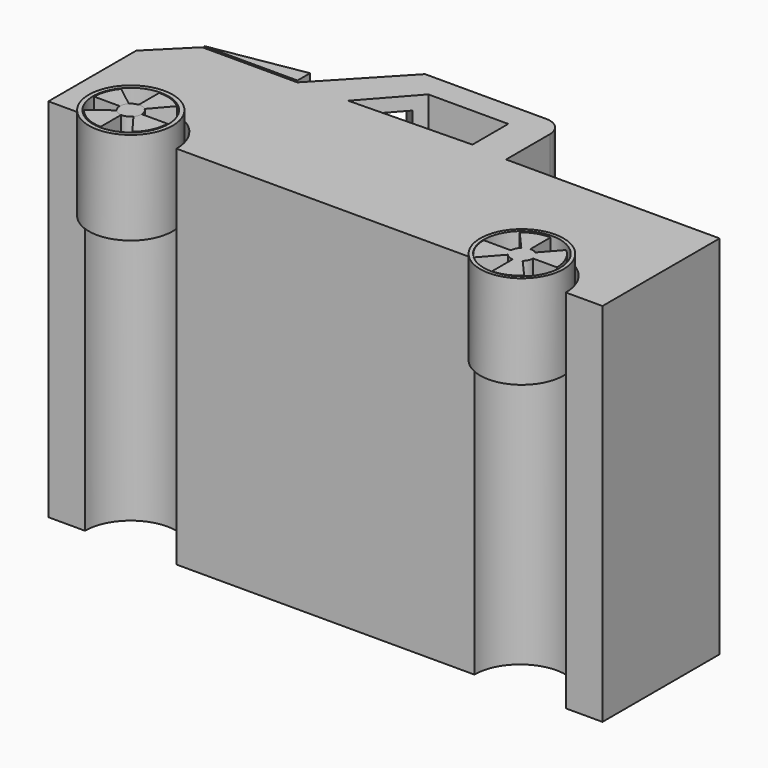
from build123d import *

# Parameters (mm, degrees)
F1_DEPTH       = 25.4
F3_DEPTH       = 127
F4_SIZE        = 12.7
F6_R           = 6.35
F8_DEPTH       = 152.654
F10_DEPTH      = 25.4
F12_DEPTH      = 25.4
F13_W          = 16.2486957626
F13_H          = 119.4617953151
F14_DEPTH      = 19.05
F15_W          = 59.9437842466
F15_H          = 107.8668609262
F16_DEPTH      = 31.75
F17_R          = 12.7
F18_DEPTH      = 6.604
F18_DEPTH_BACK = 25.4
F20_DEPTH      = 42.672
F21_R          = 14.5503391108
F21_R_2        = 13.0985920163
F22_DEPTH      = 32.258
F23_R          = 3.8234210024
F24_DEPTH      = 32.258
F26_DEPTH      = 37.592
F27_R          = 14.4579304603
F27_R_2        = 13.2474049672
F28_DEPTH      = 32.512


with BuildPart() as f1:
    # F0 (on Top) → F1 (new body)
    with BuildSketch(Plane.XY):
        with BuildLine():
            Line((-98.0778662412, 30.7255328881), (-98.0778662412, -20.0744671119))
            Line((-98.0778662412, -20.0744671119), (-85.3778662412, -20.0744671119))
            ThreePointArc((-85.3778662412, -20.0744671119), (-69.5028662412, -4.1994671119), (-53.6278662412, -20.0744671119))
            Line((-53.6278662412, -20.0744671119), (49.6654686659, -20.0744671119))
            ThreePointArc((49.6654686659, -20.0744671119), (65.5404686659, -4.1994671119), (81.4154686659, -20.0744671119))
            Line((81.4154686659, -20.0744671119), (94.1154686659, -20.0744671119))
            Line((94.1154686659, -20.0744671119), (94.1154686659, 30.7255328881))
            Line((94.1154686659, 30.7255328881), (20.0321313981, 30.7255328881))
            Line((20.0321313981, 30.7255328881), (20.0321313981, 56.1255328881))
            Line((20.0321313981, 56.1255328881), (-28.3871404864, 56.1255328881))
            Line((-28.3871404864, 56.1255328881), (-52.3578648184, 30.7255328881))
            Line((-52.3578648184, 30.7255328881), (-98.0778662412, 30.7255328881))
        make_face()
        Polygon((7.467600517, 31.8516008556), (-34.8995998502, 30.9372004122), (-20.2692002058, 47.3963990808), (7.467600517, 47.3963990808), align=None, mode=Mode.SUBTRACT)
    extrude(amount=F1_DEPTH)


with BuildPart() as f3:
    # F2 (on face) → F3 (new body)
    with BuildSketch(Plane.XY.offset(25.4)):
        with BuildLine():
            Line((-28.3871404864, 56.1255328881), (-52.3578648184, 30.7255328881))
            Line((-52.3578648184, 30.7255328881), (-98.0778662412, 30.7255328881))
            Line((-98.0778662412, 30.7255328881), (-98.0778662412, -20.0744671119))
            Line((-98.0778662412, -20.0744671119), (-85.3778662412, -20.0744671119))
            ThreePointArc((-85.3778662412, -20.0744671119), (-69.5028662412, -4.1994671119), (-53.6278662412, -20.0744671119))
            Line((-53.6278662412, -20.0744671119), (49.6654686659, -20.0744671119))
            ThreePointArc((49.6654686659, -20.0744671119), (65.5404686659, -4.1994671119), (81.4154686659, -20.0744671119))
            Line((81.4154686659, -20.0744671119), (94.1154686659, -20.0744671119))
            Line((94.1154686659, -20.0744671119), (94.1154686659, 30.7255328881))
            Line((94.1154686659, 30.7255328881), (20.0321313981, 30.7255328881))
            Line((20.0321313981, 30.7255328881), (20.0321313981, 56.1255328881))
            Line((20.0321313981, 56.1255328881), (-28.3871404864, 56.1255328881))
        make_face()
        Polygon((7.467600517, 47.3963990808), (7.467600517, 31.8516008556), (-34.8995998502, 30.9372004122), (-20.2692002058, 47.3963990808), align=None, mode=Mode.SUBTRACT)
    extrude(amount=F3_DEPTH)

    # F4
    f4_edges = [f3.edges().sort_by_distance(p)[0] for p in [
        (-98.077866, 30.725533, 88.9),
    ]]
    chamfer(f4_edges, length=F4_SIZE)

    # F6
    f6_edges = [f3.edges().sort_by_distance(p)[0] for p in [
        (20.032131, 56.125533, 88.9),
    ]]
    fillet(f6_edges, radius=F6_R)

    # F13 (on face) → F14 (cut)
    with BuildSketch(Plane(origin=(-43.0304532091, 40.6090996754, 0), x_dir=(-0.686348585, -0.7272727273, 0), z_dir=(-0.7272727273, 0.686348585, 0))):
        with Locations((-8.1243478813, 88.1171720102)):
            Rectangle(F13_W, F13_H)
    extrude(amount=-F14_DEPTH, mode=Mode.SUBTRACT)

    # F15 (on face) → F16 (cut)
    with BuildSketch(Plane(origin=(0, 30.7255328881, 0), x_dir=(-1, 0, 0), z_dir=(0, 1, 0))):
        with Locations((-55.6326190781, 90.9239016473)):
            Rectangle(F15_W, F15_H)
    extrude(amount=-F16_DEPTH, mode=Mode.SUBTRACT)


with BuildPart() as f8:
    # F7 (on Top) → F8 (new body)
    with BuildSketch(Plane.XY):
        Polygon((-52.7304001153, 36.728400737), (-85.0391983986, 31.2420018017), (-52.7304001153, 31.2420018017), align=None)
    extrude(amount=F8_DEPTH)

    # F9 (on Top) → F10 (cut)
    with BuildSketch(Plane.XY):
        Polygon((-53.0351996422, 37.033200264), (-84.1248035431, 31.8516008556), (-53.0351996422, 30.0227999687), align=None)
    extrude(amount=F10_DEPTH, mode=Mode.SUBTRACT)

    # F11 (on Top) → F12 (cut)
    with BuildSketch(Plane.XY):
        Polygon((-45.1124533736, 57.0361010675), (-89.001595974, 44.9580028653), (-89.001595974, 20.2692002058), (-43.2815998793, 22.7076001465), align=None)
    extrude(amount=F12_DEPTH, mode=Mode.SUBTRACT)


with BuildPart() as f18:
    # F17 (on face) → F18 (new body, two sides)
    with BuildSketch(Plane.XY.offset(152.4)) as f18_sk:
        with Locations((-69.5028662412, -20.0744671119)):
            Circle(F17_R)
    extrude(amount=F18_DEPTH)
    extrude(f18_sk.sketch, amount=-F18_DEPTH_BACK)

    # F19 (on face) → F20 (cut)
    with BuildSketch(Plane.XY.offset(159.004)):
        with BuildLine():
            ThreePointArc((-66.589683144, -22.5507369687), (-65.9142123432, -21.3935999187), (-65.6794452388, -20.0744671119))
            ThreePointArc((-65.6794452388, -20.0744671119), (-66.032546227, -18.4696533654), (-67.0266299507, -17.1612554829))
            ThreePointArc((-67.0266299507, -17.1612554829), (-68.324810941, -16.4370595363), (-69.8010662799, -16.2626926041))
            ThreePointArc((-69.8010662799, -16.2626926041), (-71.151311703, -16.6246590417), (-72.2811957686, -17.4477898956))
            ThreePointArc((-72.2811957686, -17.4477898956), (-73.055419663, -18.6609918389), (-73.3262872437, -20.0744671119))
            ThreePointArc((-73.3262872437, -20.0744671119), (-73.0915201393, -21.3935999187), (-72.4160493385, -22.5507369687))
            ThreePointArc((-72.4160493385, -22.5507369687), (-71.2402750017, -23.4803383603), (-69.7974926492, -23.8865195042))
            ThreePointArc((-69.7974926492, -23.8865195042), (-68.0330742392, -23.6040931024), (-66.589683144, -22.5507369687))
        make_face()
        with BuildLine():
            Line((-61.24115574, -29.719887766), (-66.589683144, -22.5507369687))
            ThreePointArc((-66.589683144, -22.5507369687), (-68.0330742392, -23.6040931024), (-69.7974926492, -23.8865195042))
            Line((-69.7974926492, -23.8865195042), (-69.7974926492, -32.7710491433))
            ThreePointArc((-69.7974926492, -32.7710491433), (-65.2371888419, -32.0366573932), (-61.24115574, -29.719887766))
        make_face()
        with BuildLine():
            Line((-79.535111766, -27.861896067), (-72.4160493385, -22.5507369687))
            ThreePointArc((-72.4160493385, -22.5507369687), (-73.0915201393, -21.3935999187), (-73.3262872437, -20.0744671119))
            Line((-73.3262872437, -20.0744671119), (-82.2028662412, -20.0744671119))
            ThreePointArc((-82.2028662412, -20.0744671119), (-81.5174306979, -24.1903195045), (-79.535111766, -27.861896067))
        make_face()
        with BuildLine():
            ThreePointArc((-72.2811957686, -17.4477898956), (-71.151311703, -16.6246590417), (-69.8010662799, -16.2626926041))
            Line((-69.8010662799, -16.2626926041), (-69.8010662799, -7.3779685104))
            ThreePointArc((-69.8010662799, -7.3779685104), (-75.0552484987, -8.6525123201), (-79.3031619466, -11.9970786672))
            Line((-79.3031619466, -11.9970786672), (-72.2811957686, -17.4477898956))
        make_face()
        with BuildLine():
            ThreePointArc((-67.0266299507, -17.1612554829), (-66.032546227, -18.4696533654), (-65.6794452388, -20.0744671119))
            Line((-65.6794452388, -20.0744671119), (-56.8028662412, -20.0744671119))
            ThreePointArc((-56.8028662412, -20.0744671119), (-57.957143405, -14.7842606709), (-61.2101550899, -10.4556864324))
            Line((-61.2101550899, -10.4556864324), (-67.0266299507, -17.1612554829))
        make_face()
    extrude(amount=-F20_DEPTH, mode=Mode.SUBTRACT)


with BuildPart() as f18b:
    # F17 (on face) → F18, piece 2 (new body, two sides)
    with BuildSketch(Plane.XY.offset(152.4)) as f18_2_sk:
        with Locations((65.5404686659, -20.0744671119)):
            Circle(F17_R)
    extrude(amount=F18_DEPTH)
    extrude(f18_2_sk.sketch, amount=-F18_DEPTH_BACK)

    # F25 (on face) → F26 (cut)
    with BuildSketch(Plane.XY.offset(159.004)):
        with BuildLine():
            Line((63.5799478034, -17.0914367663), (57.5261820487, -10.2225023323))
            ThreePointArc((57.5261820487, -10.2225023323), (54.0984828398, -14.5634816868), (52.8410808041, -19.9497757508))
            Line((52.8410808041, -19.9497757508), (62.2890742888, -19.9497757508))
            ThreePointArc((62.2890742888, -19.9497757508), (62.6267572015, -18.3816194942), (63.5799478034, -17.0914367663))
        make_face()
        with BuildLine():
            ThreePointArc((73.8361295373, -10.4582302853), (70.1461167495, -8.239011661), (65.9266607232, -7.380340293))
            Line((65.9266607232, -7.380340293), (65.9266607232, -16.1436788574))
            ThreePointArc((65.9266607232, -16.1436788574), (67.1318990539, -16.2824370694), (68.2324145932, -16.7930433983))
            Line((68.2324145932, -16.7930433983), (73.8361295373, -10.4582302853))
        make_face()
        with BuildLine():
            ThreePointArc((78.2404686659, -20.0744671119), (78.2403156304, -20.0121206801), (78.2398565277, -19.9497757508))
            Line((78.2398565277, -19.9497757508), (69.9090742888, -19.9497757508))
            ThreePointArc((69.9090742888, -19.9497757508), (69.5713913761, -21.5179320075), (68.6182007743, -22.8081147353))
            Line((68.6182007743, -22.8081147353), (74.3072586548, -29.2632316257))
            ThreePointArc((74.3072586548, -29.2632316257), (77.2158323189, -25.072054887), (78.2404686659, -20.0744671119))
        make_face()
        with BuildLine():
            Line((63.226239122, -22.4523580381), (57.0083197097, -29.4815088462))
            ThreePointArc((57.0083197097, -29.4815088462), (61.1483865243, -31.9908262229), (65.9266607232, -32.7685939308))
            Line((65.9266607232, -32.7685939308), (65.9266607232, -23.7558726443))
            ThreePointArc((65.9266607232, -23.7558726443), (64.4428217287, -23.3809457346), (63.226239122, -22.4523580381))
        make_face()
    extrude(amount=-F26_DEPTH, mode=Mode.SUBTRACT)


with BuildPart() as f22:
    # F21 (on face) → F22 (new body)
    with BuildSketch(Plane.XY.offset(159.004)):
        with Locations((-69.5028662412, -20.0744671119)):
            Circle(F21_R)
        with Locations((-69.5028662412, -20.0744671119)):
            Circle(F21_R_2, mode=Mode.SUBTRACT)
    extrude(amount=-F22_DEPTH)


with BuildPart() as f24:
    # F23 (on face) → F24 (new body)
    with BuildSketch(Plane.XY.offset(159.004)):
        with Locations((-69.5028662412, -20.0744671119)):
            Circle(F23_R)
    extrude(amount=-F24_DEPTH)


with BuildPart() as f28:
    # F27 (on face) → F28 (new body)
    with BuildSketch(Plane.XY.offset(159.004)):
        with Locations((65.8368095756, -19.6596011519)):
            Circle(F27_R)
        with Locations((65.8368095756, -19.6596011519)):
            Circle(F27_R_2, mode=Mode.SUBTRACT)
    extrude(amount=-F28_DEPTH)


solid = Compound([f3.part, f8.part, f18.part, f18b.part, f22.part, f24.part, f28.part])
